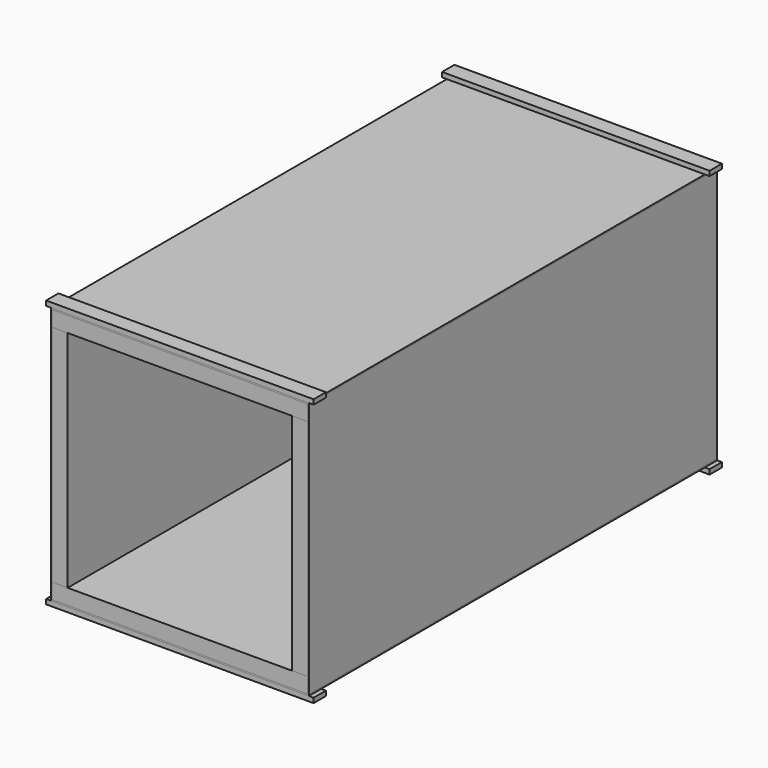
from build123d import *

# Parameters (mm, degrees)
F1_DEPTH = 4800
F0_W     = 145
F0_H     = 2110
F2_DEPTH = 4800
F3_DEPTH = 4800
F4_DEPTH = 4800
F5_W     = 2426
F5_H     = 145
F5_W_2   = 45
F6_DEPTH = 45


with BuildPart() as f1:
    # F0 (on Front) → F1 (new body)
    with BuildSketch(Plane.XZ):
        Polygon((1760.7763689577, 1307.9265333235), (-639.2236310423, 1307.9265333235), (-639.2236310423, 1162.9265333235), (-494.2236310423, 1162.9265333235), (1615.7763689577, 1162.9265333235), (1760.7763689577, 1162.9265333235), align=None)
    extrude(amount=F1_DEPTH)


with BuildPart() as f1b:
    # F0 (on Front) → F1, piece 2 (new body)
    with BuildSketch(Plane.XZ):
        Polygon((-494.2236310423, -947.0734666765), (-639.2236310423, -947.0734666765), (-639.2236310423, -1092.0734666765), (1760.7763689577, -1092.0734666765), (1760.7763689577, -947.0734666765), (1615.7763689577, -947.0734666765), align=None)
    extrude(amount=F1_DEPTH)


with BuildPart() as f2:
    # F0 (on Front) → F2 (new body)
    with BuildSketch(Plane.XZ):
        with Locations((-566.7236310423, 107.9265333235)):
            Rectangle(F0_W, F0_H)
    extrude(amount=F2_DEPTH)


with BuildPart() as f2b:
    # F0 (on Front) → F2, piece 2 (new body)
    with BuildSketch(Plane.XZ):
        with Locations((1688.2763689577, 107.9265333235)):
            Rectangle(F0_W, F0_H)
    extrude(amount=F2_DEPTH)


with BuildPart() as f3:
    # F0 (on Front) → F3 (new body)
    with BuildSketch(Plane.XZ):
        Polygon((-652.2236310423, 1307.9265333235), (-639.2236310423, 1307.9265333235), (1760.7763689577, 1307.9265333235), (1773.7763689577, 1307.9265333235), (1773.7763689577, 1320.9265333235), (-652.2236310423, 1320.9265333235), align=None)
    extrude(amount=F3_DEPTH)


with BuildPart() as f3b:
    # F0 (on Front) → F3, piece 2 (new body)
    with BuildSketch(Plane.XZ):
        Polygon((-639.2236310423, -1092.0734666765), (-652.2236310423, -1092.0734666765), (-652.2236310423, -1105.0734666765), (1773.7763689577, -1105.0734666765), (1773.7763689577, -1092.0734666765), (1760.7763689577, -1092.0734666765), align=None)
    extrude(amount=F3_DEPTH)


with BuildPart() as f4:
    # F0 (on Front) → F4 (new body)
    with BuildSketch(Plane.XZ):
        Polygon((-639.2236310423, 1162.9265333235), (-639.2236310423, 1307.9265333235), (-652.2236310423, 1307.9265333235), (-652.2236310423, -1092.0734666765), (-639.2236310423, -1092.0734666765), (-639.2236310423, -947.0734666765), align=None)
    extrude(amount=F4_DEPTH)


with BuildPart() as f4b:
    # F0 (on Front) → F4, piece 2 (new body)
    with BuildSketch(Plane.XZ):
        Polygon((1773.7763689577, 1307.9265333235), (1760.7763689577, 1307.9265333235), (1760.7763689577, 1162.9265333235), (1760.7763689577, -947.0734666765), (1760.7763689577, -1092.0734666765), (1773.7763689577, -1092.0734666765), align=None)
    extrude(amount=F4_DEPTH)


with BuildPart() as f6:
    # F5 (on face) → F6 (new body)
    with BuildSketch(Plane.XY.offset(1320.9265333235)):
        with Locations((560.7763689577, -4727.5)):
            Rectangle(F5_W, F5_H)
        with Locations((-674.7236310423, -4727.5)):
            Rectangle(F5_W_2, F5_H)
        with Locations((1796.2763689577, -4727.5)):
            Rectangle(F5_W_2, F5_H)
    extrude(amount=F6_DEPTH)


with BuildPart() as f7_1:
    # F7: copy of F6
    add(f6.part.moved(Location((0, 0, -2471))))


with BuildPart() as f8_1:
    # F8: copy of F6
    add(f6.part.moved(Location((0, 4655, 0))))


with BuildPart() as f8_2:
    # F8: copy of F7_1
    add(f7_1.part.moved(Location((0, 4655, 0))))


solid = Compound([f1.part, f1b.part, f2.part, f2b.part, f3.part, f3b.part, f4.part, f4b.part, f6.part, f7_1.part, f8_1.part, f8_2.part])
